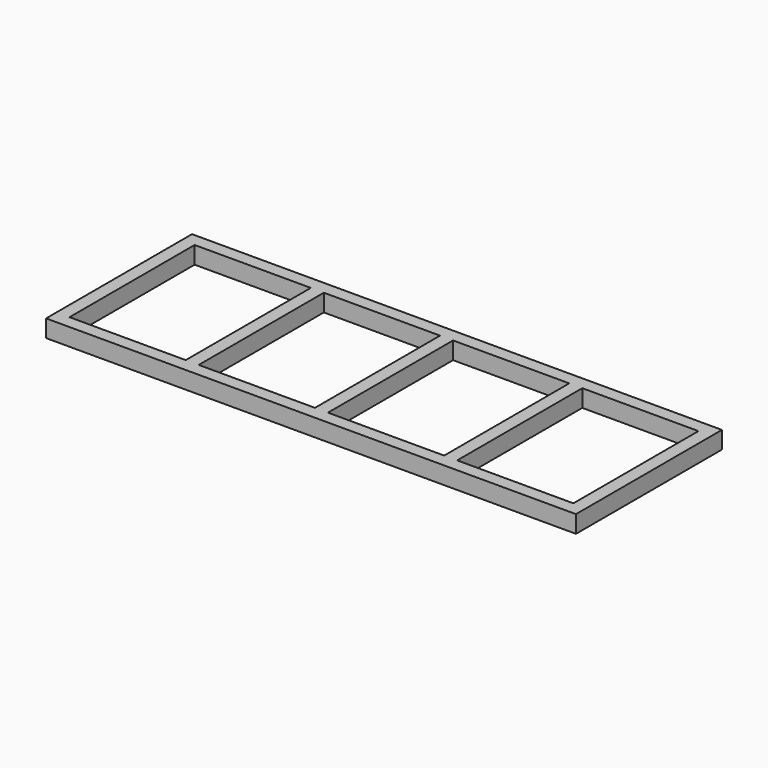
from build123d import *

# Parameters (mm, degrees)
F0_W     = 1549.4
F0_H     = 38.1
F1_DEPTH = 50.8
F2_W     = 38.1
F2_H     = 457.2
F3_DEPTH = 50.8


with BuildPart() as f1:
    # F0 (on Top) → F1 (new body)
    with BuildSketch(Plane.XY):
        with Locations((0, 234.95)):
            Rectangle(F0_W, F0_H)
        with Locations((0, -260.35)):
            Rectangle(F0_W, F0_H)
    extrude(amount=F1_DEPTH)

    # F2 (on Top) → F3 (join, through all)
    with BuildSketch(Plane.XY):
        with Locations((-755.65, -12.7)):
            Rectangle(F2_W, F2_H)
        with Locations((-377.825, -12.7)):
            Rectangle(F2_W, F2_H)
        with Locations((0, -12.7)):
            Rectangle(F2_W, F2_H)
        with Locations((377.825, -12.7)):
            Rectangle(F2_W, F2_H)
        with Locations((755.65, -12.7)):
            Rectangle(F2_W, F2_H)
    extrude(amount=F3_DEPTH)


solid = f1.part
